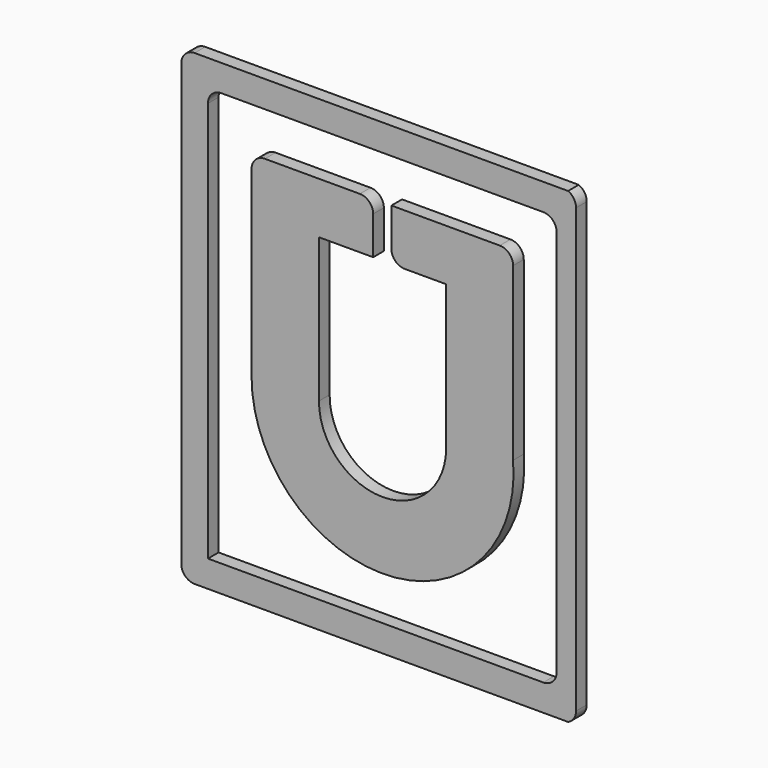
from build123d import *

# Parameters (mm, degrees)
F1_DEPTH = 6.35
F2_DEPTH = 6.35


with BuildPart() as f1:
    # F0 (on Front) → F1 (new body)
    with BuildSketch(Plane.XZ):
        with BuildLine():
            ThreePointArc((103.00695, 102.431316), (101.147078, 106.921444), (96.65695, 108.781316))
            Line((96.65695, 108.781316), (45.076356, 108.781316))
            Line((45.076356, 108.781316), (45.076356, 90.623581))
            ThreePointArc((45.076356, 90.623581), (46.936228, 86.133453), (51.426356, 84.273581))
            Line((51.426356, 84.273581), (71.137713, 84.273581))
            Line((71.137713, 84.273581), (71.137713, 15.398908))
            ThreePointArc((71.137713, 15.398908), (40.749251, -14.761817), (10.588526, 15.626645))
            Line((10.588526, 15.626645), (10.501273, 84.273581))
            Line((10.501273, 84.273581), (36.397954, 84.273581))
            Line((36.397954, 84.273581), (36.397954, 102.431316))
            ThreePointArc((36.397954, 102.431316), (34.538082, 106.921444), (30.047954, 108.781316))
            Line((30.047954, 108.781316), (-15.153159, 108.781316))
            ThreePointArc((-15.153159, 108.781316), (-19.643179, 106.921552), (-21.503158, 102.43162))
            Line((-21.503158, 102.43162), (-21.507319, 15.705716))
            ThreePointArc((-21.507319, 15.705716), (43.426838, -46.805248), (103.00695, 20.828142))
            Line((103.00695, 20.828142), (103.00695, 102.431316))
        make_face()
    extrude(amount=F1_DEPTH)


with BuildPart() as f2:
    # F0 (on Front) → F2 (new body)
    with BuildSketch(Plane.XZ):
        with BuildLine():
            ThreePointArc((-48.617846, 142.23295), (-53.107974, 140.373078), (-54.967846, 135.88295))
            Line((-54.967846, 135.88295), (-54.967846, -73.957573))
            ThreePointArc((-54.967846, -73.957573), (-53.107974, -78.447701), (-48.617846, -80.307573))
            Line((-48.617846, -80.307573), (129.182154, -80.307573))
            ThreePointArc((129.182154, -80.307573), (131.954945, -77.96574), (132.992154, -74.487702))
            Line((132.992154, -74.487702), (132.992154, 136.413079))
            ThreePointArc((132.992154, 136.413079), (131.954945, 139.891117), (129.182154, 142.23295))
            Line((129.182154, 142.23295), (-48.617846, 142.23295))
        make_face()
        with BuildLine():
            Line((-35.917846, 129.53295), (117.392156, 129.53295))
            ThreePointArc((117.392156, 129.53295), (121.882284, 127.673078), (123.742156, 123.18295))
            Line((123.742156, 123.18295), (123.742156, -61.257573))
            ThreePointArc((123.742156, -61.257573), (121.882284, -65.747701), (117.392156, -67.607573))
            Line((117.392156, -67.607573), (-42.267846, -67.607573))
            Line((-42.267846, -67.607573), (-42.267846, 123.18295))
            ThreePointArc((-42.267846, 123.18295), (-40.407974, 127.673078), (-35.917846, 129.53295))
        make_face(mode=Mode.SUBTRACT)
    extrude(amount=F2_DEPTH)


solid = Compound([f1.part, f2.part])
